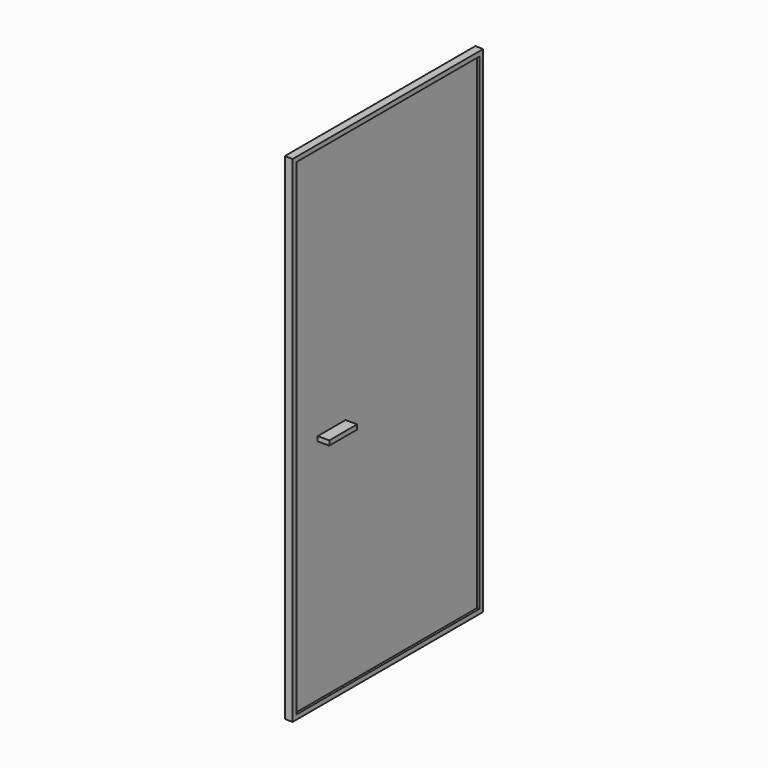
from build123d import *

# Parameters (mm, degrees)
F0_W     = 1025
F0_H     = 2133
F1_DEPTH = 24
F2_W     = 150
F2_H     = 20
F3_DEPTH = 50
F4_W     = 1025
F4_H     = 2133
F4_W_2   = 985
F4_H_2   = 2093
F5_DEPTH = 10


with BuildPart() as f1:
    # F0 (on Right) → F1 (new body)
    with BuildSketch(Plane.YZ):
        with Locations((512.5, 1066.5)):
            Rectangle(F0_W, F0_H)
    extrude(amount=F1_DEPTH)

    # F4 (on face) → F5 (join)
    with BuildSketch(Plane.YZ.offset(24)):
        with Locations((512.5, 1066.5)):
            Rectangle(F4_W, F4_H)
        with Locations((512.5, 1066.5)):
            Rectangle(F4_W_2, F4_H_2, mode=Mode.SUBTRACT)
    extrude(amount=F5_DEPTH)


with BuildPart() as f3:
    # F2 (on face) → F3 (new body)
    with BuildSketch(Plane.YZ.offset(24)):
        with Locations((221.840221, 1010)):
            Rectangle(F2_W, F2_H)
    extrude(amount=F3_DEPTH)


solid = Compound([f1.part, f3.part])
